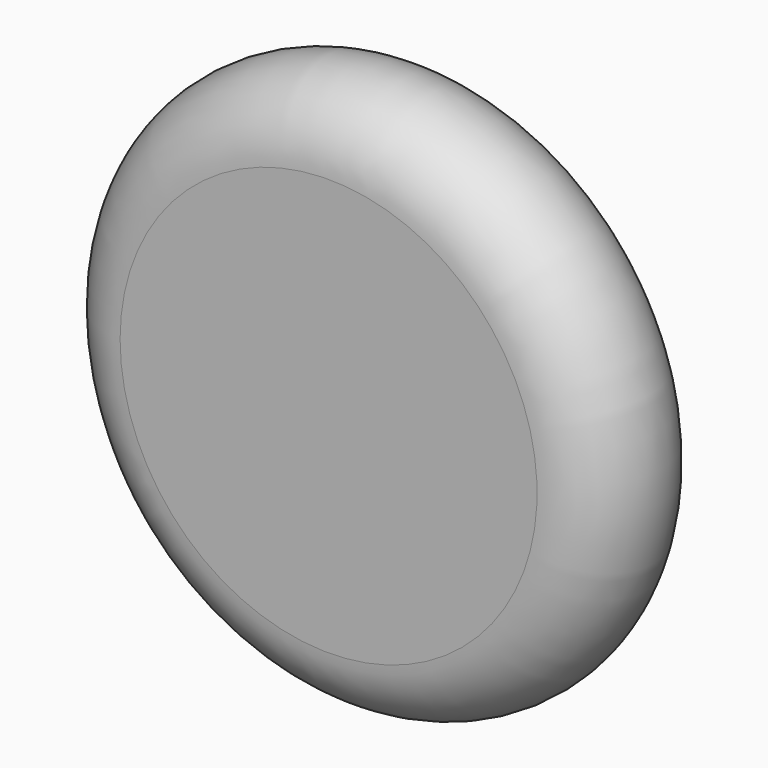
from build123d import *


with BuildPart() as f1:
    # F0 (on Top) → F1 (revolve)
    with BuildSketch(Plane.XY):
        with BuildLine():
            ThreePointArc((0, 5), (-6.324555, 6.026334), (-12, 9))
            ThreePointArc((-12, 9), (-19.743416, 6.581139), (-15, 0))
            Line((-15, 0), (0, 0))
            Line((0, 0), (0, 5))
        make_face()
    revolve(axis=Axis((0, 2.5, 0), (0, 1, 0)))


solid = f1.part
